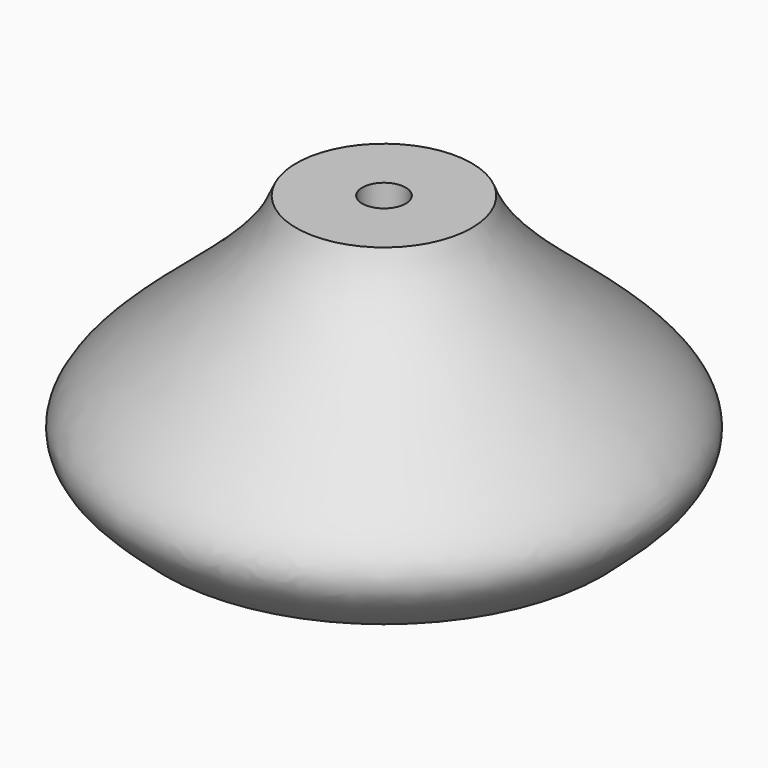
from build123d import *

# Parameters (mm, degrees)
F2_R     = 18.8171666667
F3_DEPTH = 4.826
F5_DEPTH = 7.6454
F6_R     = 2.0999958
F7_DEPTH = 17.7556001
F8_R     = 18.0234166667
F9_DEPTH = 4.826


with BuildPart() as f1:
    # F0 (on Front) → F1 (revolve)
    with BuildSketch(Plane.XZ):
        with BuildLine():
            Line((0, 25.4), (0, 0))
            Line((0, 0), (21.1666666667, 0))
            add(Edge.make_bspline(
                [(21.1666666667, 0), (22.8693635663, 1.6177524075), (31.6154373363, 7.5493314952), (11.1343017502, 17.7709202107), (8.466666582, 25.4)],
                knots=[0, 0, 0, 0, 0.3536699627, 1, 1, 1, 1], degree=3))
            Line((8.466666582, 25.4), (0, 25.4))
        make_face()
    revolve(axis=Axis((0, 0, 12.7), (0, 0, -1)))

    # F2 (on face) → F3 (cut)
    with BuildSketch(Plane(origin=(0, 0, 0), x_dir=(1, 0, 0), z_dir=(0, 0, -1))):
        Circle(F2_R)
    extrude(amount=-F3_DEPTH, mode=Mode.SUBTRACT)

    # F4 (on face) → F5 (cut)
    with BuildSketch(Plane(origin=(0, 0, 0), x_dir=(1, 0, 0), z_dir=(0, 0, -1))):
        Polygon((3.746424326, 0.0238121685), (1.8525902201, 3.256404724), (-1.8938341059, 3.2325925554), (-3.746424326, -0.0238121685), (-1.8525902201, -3.256404724), (1.8938341059, -3.2325925554), align=None)
    extrude(amount=-F5_DEPTH, mode=Mode.SUBTRACT)

    # F6 (on face) → F7 (cut, through all)
    with BuildSketch(Plane(origin=(0, 0, 7.6454), x_dir=(1, 0, 0), z_dir=(0, 0, -1))):
        Circle(F6_R)
    extrude(amount=-F7_DEPTH, mode=Mode.SUBTRACT)


with BuildPart() as f9:
    # F8 (on face) → F9 (new body, through all)
    with BuildSketch(Plane(origin=(0, 0, 0), x_dir=(1, 0, 0), z_dir=(0, 0, -1))):
        Circle(F8_R)
    extrude(amount=-F9_DEPTH)


solid = Compound([f1.part, f9.part])
